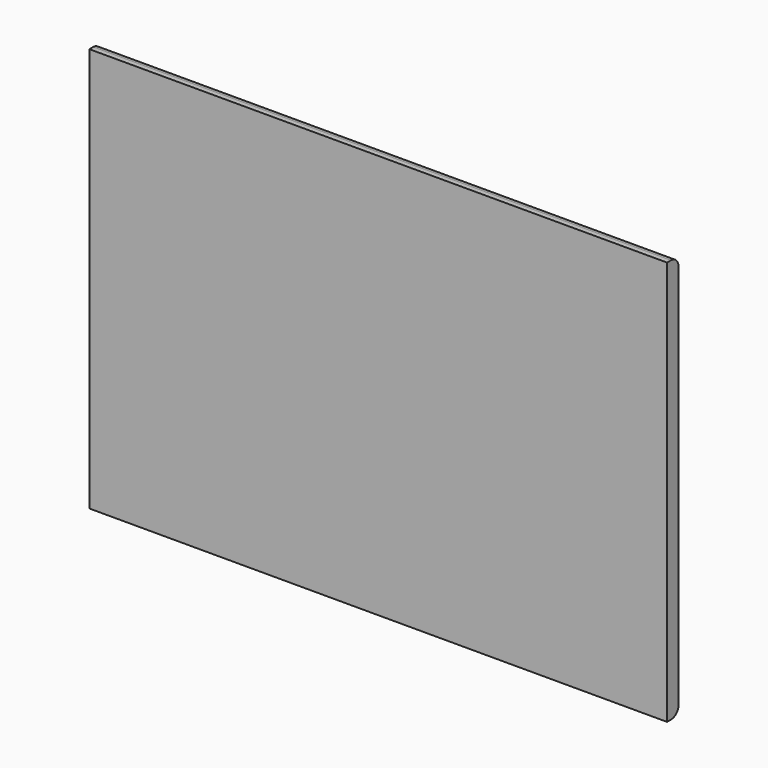
from build123d import *

# Parameters (mm, degrees)
F0_W     = 762
F0_H     = 533.4
F1_DEPTH = 19.05
F2_R     = 12.7


with BuildPart() as f1:
    # F0 (on Front) → F1 (new body)
    with BuildSketch(Plane.XZ):
        Rectangle(F0_W, F0_H)
    extrude(amount=F1_DEPTH)

    # F2
    f2_edges = [f1.edges().sort_by_distance(p)[0] for p in [
        (0, 0, 266.7),
        (0, 0, -266.7),
    ]]
    fillet(f2_edges, radius=F2_R)


solid = f1.part
